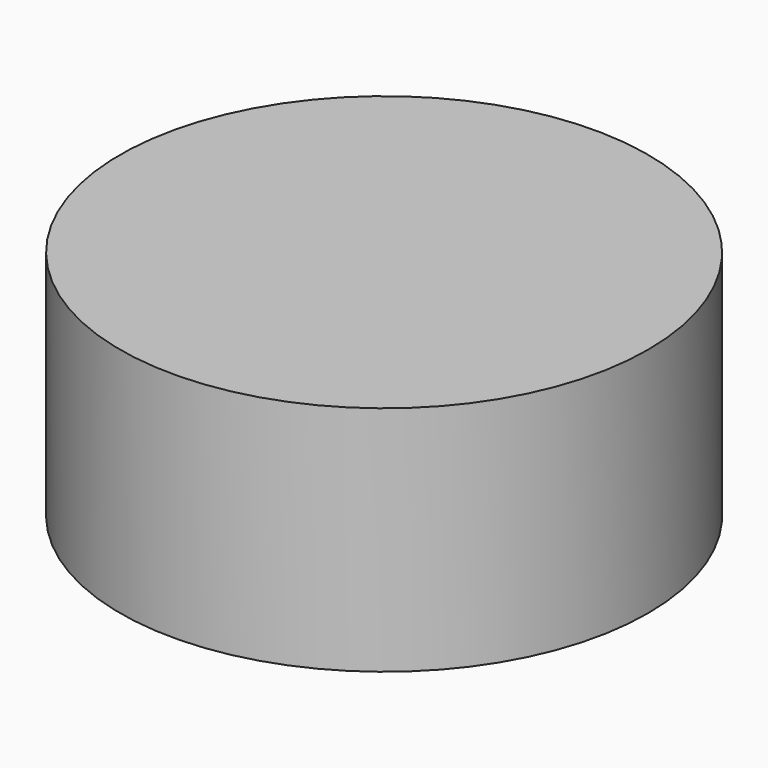
from build123d import *

# Parameters (mm, degrees)
CYLINDER_R     = 17.0688
CYLINDER_DEPTH = 15


with BuildPart() as part:
    # Cylinder → Cylinder (new body)
    with BuildSketch(Plane.XY.offset(-2.5)):
        Circle(CYLINDER_R)
    extrude(amount=CYLINDER_DEPTH)


solid = part.part
